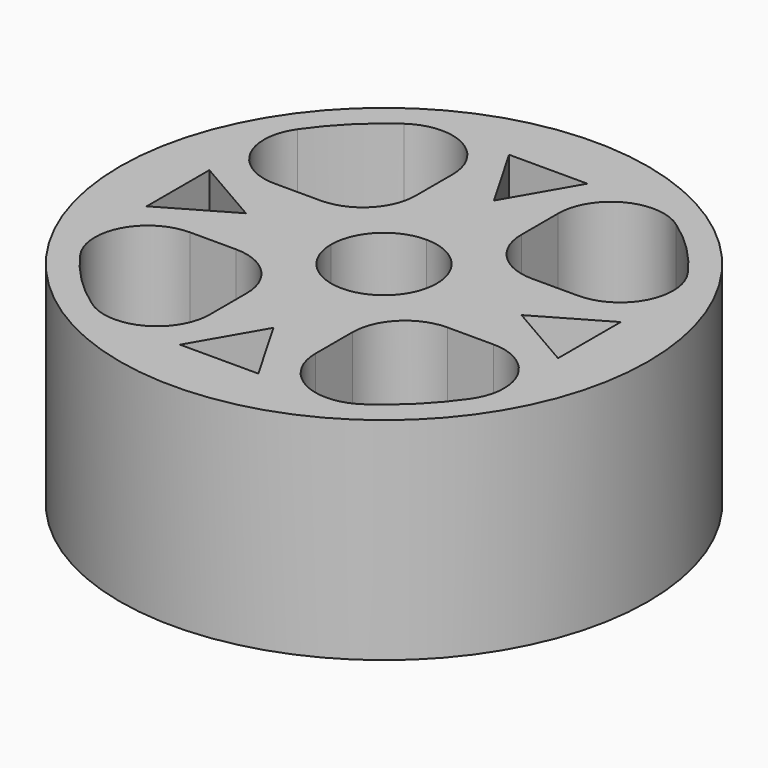
from build123d import *

# Parameters (mm, degrees)
F0_R     = 31.75
F1_DEPTH = 25.4


with BuildPart() as f1:
    # F0 (on Top) → F1 (new body)
    with BuildSketch(Plane.XY):
        Circle(F0_R)
        Polygon((-4.710587, -24.769592), (0, -16.610617), (4.710587, -24.769592), (0, -24.769592), align=None, mode=Mode.SUBTRACT)
        Polygon((-24.723618, 4.664613), (-16.644272, 0), (-16.564643, -0.045974), (-24.723618, -4.756561), (-24.723618, 0), align=None, mode=Mode.SUBTRACT)
        with BuildLine():
            ThreePointArc((-16.328571, -23.450125), (-20.205576, -20.205576), (-23.450125, -16.328571))
            ThreePointArc((-23.450125, -16.328571), (-23.86766, -9.760521), (-18.238986, -6.35))
            Line((-18.238986, -6.35), (-12.7, -6.35))
            ThreePointArc((-12.7, -6.35), (-8.209872, -8.209872), (-6.35, -12.7))
            Line((-6.35, -12.7), (-6.35, -18.238986))
            ThreePointArc((-6.35, -18.238986), (-9.760521, -23.86766), (-16.328571, -23.450125))
        make_face(mode=Mode.SUBTRACT)
        with BuildLine():
            ThreePointArc((6.35, -12.7), (8.209872, -8.209872), (12.7, -6.35))
            Line((12.7, -6.35), (18.238986, -6.35))
            ThreePointArc((18.238986, -6.35), (23.86766, -9.760521), (23.450125, -16.328571))
            ThreePointArc((23.450125, -16.328571), (20.205576, -20.205576), (16.328571, -23.450125))
            ThreePointArc((16.328571, -23.450125), (9.760521, -23.86766), (6.35, -18.238986))
            Line((6.35, -18.238986), (6.35, -12.7))
        make_face(mode=Mode.SUBTRACT)
        Polygon((16.564643, -0.045974), (16.644272, 0), (24.723618, 4.664613), (24.723618, 0), (24.723618, -4.756561), align=None, mode=Mode.SUBTRACT)
        with BuildLine():
            Line((-6.35, 18.238986), (-6.35, 12.7))
            ThreePointArc((-6.35, 12.7), (-8.209872, 8.209872), (-12.7, 6.35))
            Line((-12.7, 6.35), (-18.238986, 6.35))
            ThreePointArc((-18.238986, 6.35), (-23.86766, 9.760521), (-23.450125, 16.328571))
            ThreePointArc((-23.450125, 16.328571), (-20.205576, 20.205576), (-16.328571, 23.450125))
            ThreePointArc((-16.328571, 23.450125), (-9.760521, 23.86766), (-6.35, 18.238986))
        make_face(mode=Mode.SUBTRACT)
        with BuildLine():
            ThreePointArc((0, 6.35), (4.490128, 4.490128), (6.35, 0))
            ThreePointArc((6.35, 0), (4.490128, -4.490128), (0, -6.35))
            ThreePointArc((0, -6.35), (-4.490128, -4.490128), (-6.35, 0))
            ThreePointArc((-6.35, 0), (-4.490128, 4.490128), (0, 6.35))
        make_face(mode=Mode.SUBTRACT)
        with BuildLine():
            ThreePointArc((12.7, 6.35), (8.209872, 8.209872), (6.35, 12.7))
            Line((6.35, 12.7), (6.35, 18.238986))
            ThreePointArc((6.35, 18.238986), (9.760521, 23.86766), (16.328571, 23.450125))
            ThreePointArc((16.328571, 23.450125), (20.205576, 20.205576), (23.450125, 16.328571))
            ThreePointArc((23.450125, 16.328571), (23.86766, 9.760521), (18.238986, 6.35))
            Line((18.238986, 6.35), (12.7, 6.35))
        make_face(mode=Mode.SUBTRACT)
        Polygon((4.710587, 24.677645), (0, 16.518669), (-4.710587, 24.677645), (0, 24.677645), align=None, mode=Mode.SUBTRACT)
    extrude(amount=F1_DEPTH)


solid = f1.part
